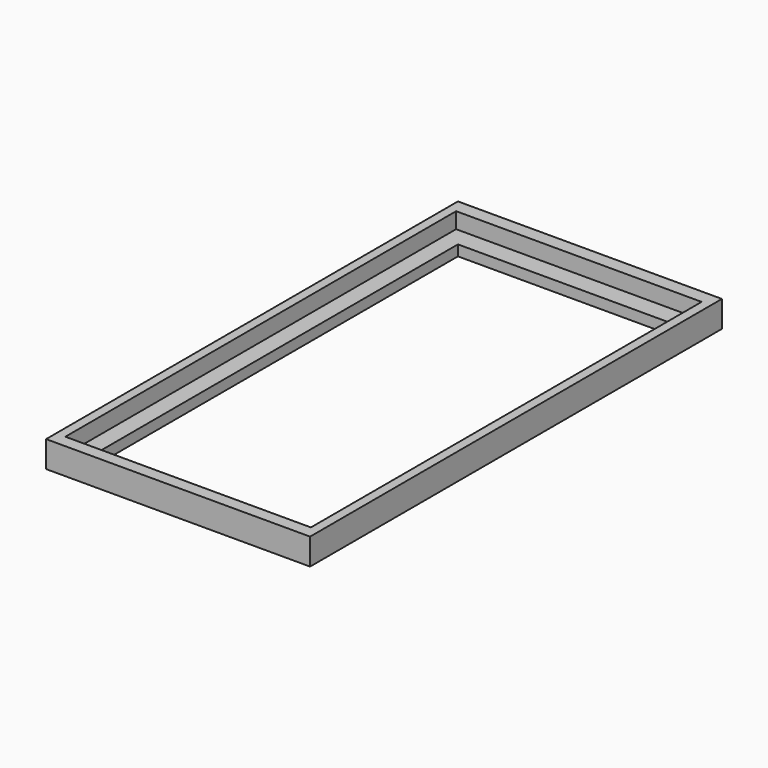
from build123d import *

# Parameters (mm, degrees)
SKETCH_W        = 100
SKETCH_H        = 195
PAD_DEPTH       = 10
SKETCH001_W     = 80
SKETCH001_H     = 170
POCKET_DEPTH    = 10.001
SKETCH003_W     = 93
SKETCH003_H     = 185
POCKET001_DEPTH = 6


with BuildPart() as part:
    # Sketch → Pad (new body)
    with BuildSketch(Plane.XY):
        Rectangle(SKETCH_W, SKETCH_H)
    extrude(amount=PAD_DEPTH)

    # Sketch001 → Pocket (cut, through all)
    with BuildSketch(Plane.XY.offset(10)):
        Rectangle(SKETCH001_W, SKETCH001_H)
    extrude(amount=-POCKET_DEPTH, mode=Mode.SUBTRACT)

    # Sketch003 → Pocket001 (cut)
    with BuildSketch(Plane.XY.offset(10)):
        with Locations((0, -0.235933)):
            Rectangle(SKETCH003_W, SKETCH003_H)
    extrude(amount=-POCKET001_DEPTH, mode=Mode.SUBTRACT)


solid = part.part
